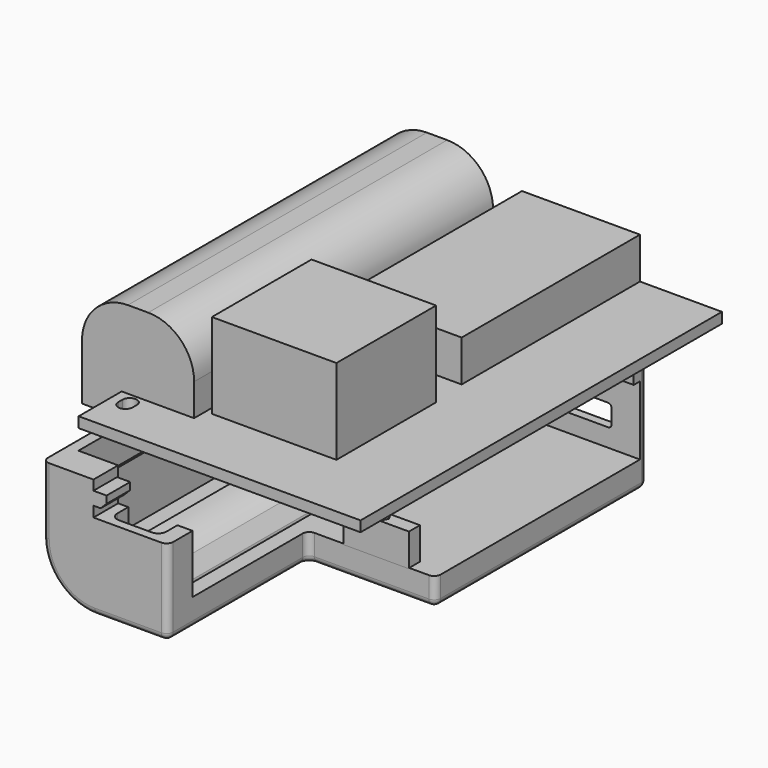
from build123d import *

# Parameters (mm, degrees)
SKETCH004_W          = 43
SKETCH004_H          = 68.9
PAD001_DEPTH         = 1.6
SKETCH005_W          = 18
SKETCH005_H          = 34
PAD002_DEPTH         = 6.3
SKETCH006_W          = 17.1
SKETCH006_H          = 57
PAD003_DEPTH         = 15.5
FILLET_R             = 7
POCKET003_DEPTH      = 3.601
SKETCH010_W          = 19
SKETCH010_H          = 19
PAD004_DEPTH         = 13
PAD_DEPTH            = 18.2
SKETCH003_W          = 19.45
SKETCH003_H          = 39
POCKET_DEPTH         = 14.001
POCKET001_DEPTH      = 5.101
POCKET002_DEPTH      = 57.6
SKETCH011_W          = 5.3
SKETCH011_H          = 2.3
POCKET004_DEPTH      = 5
PAD005_DEPTH         = 2.1
PAD005_DEPTH_BACK    = -10
SKETCH014_W          = 10
SKETCH014_H          = 2.1
PAD006_DEPTH         = 5
CHAMFER001_SIZE      = 0.5
POCKET005_DEPTH      = 5
POCKET006_DEPTH      = 100
POCKET006_DEPTH_BACK = -100
FILLET001_R          = 1
SKETCH017_W          = 4
SKETCH017_H          = 1.2
SKETCH017_W_2        = 3.5
SKETCH017_H_2        = 4.5
SKETCH017_H_3        = 3.3
PAD008_DEPTH         = 2
CHAMFER_SIZE         = 0.9


with BuildPart() as body001:
    # Sketch004 → Pad001 (new body)
    with BuildSketch(Plane.XY):
        with Locations((0, -34.45)):
            Rectangle(SKETCH004_W, SKETCH004_H)
    extrude(amount=-PAD001_DEPTH)

    # Sketch005 → Pad002 (join)
    with BuildSketch(Plane.XY):
        with Locations((0, -17)):
            Rectangle(SKETCH005_W, SKETCH005_H)
    extrude(amount=PAD002_DEPTH)

    # Sketch006 → Pad003 (join)
    with BuildSketch(Plane.XY.offset(-3.6)):
        with Locations((-19, -32.2)):
            Rectangle(SKETCH006_W, SKETCH006_H)
    extrude(amount=PAD003_DEPTH)

    # Fillet
    fillet_edges = [body001.edges().sort_by_distance(p)[0] for p in [
        (-10.45, -32.2, 11.9),
        (-27.55, -32.2, 11.9),
    ]]
    fillet(fillet_edges, radius=FILLET_R)

    # Sketch009 → Pocket003 (cut, through all)
    with BuildSketch(Plane.XY):
        with BuildLine():
            ThreePointArc((-20.1, -63.1), (-19, -64.2), (-17.9, -63.1))
            Line((-17.9, -63.1), (-17.9, -62.3))
            ThreePointArc((-17.9, -62.3), (-19, -61.2), (-20.1, -62.3))
            Line((-20.1, -62.3), (-20.1, -63.1))
        make_face()
        with BuildLine():
            ThreePointArc((-17.9, -1.3), (-19, -0.2), (-20.1, -1.3))
            Line((-20.1, -1.3), (-20.1, -2.1))
            ThreePointArc((-20.1, -2.1), (-19, -3.2), (-17.9, -2.1))
            Line((-17.9, -2.1), (-17.9, -1.3))
        make_face()
    extrude(amount=-POCKET003_DEPTH, mode=Mode.SUBTRACT)

    # Sketch010 → Pad004 (join)
    with BuildSketch(Plane.XY):
        with Locations((0, -49)):
            Rectangle(SKETCH010_W, SKETCH010_H)
    extrude(amount=PAD004_DEPTH)


with BuildPart() as body:
    # Sketch002 → Pad (new body)
    with BuildSketch(Plane.XY.offset(13.1)):
        Polygon((9, 0), (9, 1.3), (-23.5, 1.3), (-23.5, -1.7), (-29.55, -1.7), (-29.55, -65.7), (-10.45, -65.7), (-10.45, -39), (9, -39), align=None)
    extrude(amount=-PAD_DEPTH)

    # Sketch003 → Pocket (cut, through all)
    with BuildSketch(Plane.XY.offset(8.9)):
        with Locations((-0.725, -19.5)):
            Rectangle(SKETCH003_W, SKETCH003_H)
    extrude(amount=-POCKET_DEPTH, mode=Mode.SUBTRACT)

    # Sketch007 → Pocket001 (cut, through all)
    with BuildSketch(Plane.XY):
        Polygon((21.5, 0), (-21.8, 0), (-21.8, -3.4), (-27.85, -3.4), (-27.85, -61), (-21.8, -61), (-21.8, -68.9), (21.5, -68.9), align=None)
    extrude(amount=-POCKET001_DEPTH, mode=Mode.SUBTRACT)

    # Sketch008 → Pocket002 (cut)
    with BuildSketch(Plane.XZ.offset(3.4)):
        with BuildLine():
            ThreePointArc((-12.786305, 8.9), (-14.580794, 10.759754), (-16.9, 11.9))
            Line((-21.1, 11.9), (-16.9, 11.9))
            ThreePointArc((-21.1, 11.9), (-23.419206, 10.759754), (-25.213695, 8.9))
            Line((-25.213695, 8.9), (-27.55, 8.9))
            Line((-27.55, 8.9), (-27.55, -3.6))
            Line((-27.55, -3.6), (-10.45, -3.6))
            Line((-10.45, 8.9), (-10.45, -3.6))
            Line((-12.786305, 8.9), (-10.45, 8.9))
        make_face()
    extrude(amount=POCKET002_DEPTH, mode=Mode.SUBTRACT)

    # Sketch011 → Pocket004 (cut)
    with BuildSketch(Plane.XZ):
        with Locations((0, -3.95)):
            Rectangle(SKETCH011_W, SKETCH011_H)
        with BuildLine():
            Line((-4.65, 3.35), (-4.65, 5.65))
            ThreePointArc((-4.15, 6.15), (-4.503553, 6.003553), (-4.65, 5.65))
            Line((-4.15, 6.15), (4.15, 6.15))
            ThreePointArc((4.65, 5.65), (4.503553, 6.003553), (4.15, 6.15))
            Line((4.65, 5.65), (4.65, 3.35))
            ThreePointArc((4.15, 2.85), (4.503553, 2.996447), (4.65, 3.35))
            Line((4.15, 2.85), (-4.15, 2.85))
            ThreePointArc((-4.65, 3.35), (-4.503553, 2.996447), (-4.15, 2.85))
        make_face()
    extrude(amount=-POCKET004_DEPTH, mode=Mode.SUBTRACT)

    # Sketch012 → Pad005 (join, two sides)
    with BuildSketch(Plane.XY) as pad005_sk:
        Polygon((1.1, -38), (0.55, -37.047372), (-0.55, -37.047372), (-1.1, -38), (-0.55, -38.952628), (0.55, -38.952628), align=None)
    extrude(amount=-PAD005_DEPTH)
    extrude(pad005_sk.sketch, amount=-PAD005_DEPTH_BACK)

    # Sketch014 → Pad006 (join)
    with BuildSketch(Plane.XY.offset(4)):
        with Locations((0, -38)):
            Rectangle(SKETCH014_W, SKETCH014_H)
    extrude(amount=PAD006_DEPTH)

    # Chamfer001
    chamfer001_edges = [body.edges().sort_by_distance(p)[0] for p in [
        (0.825, -37.523686, -2.1),
        (0, -37.047372, -2.1),
        (-0.825, -37.523686, -2.1),
        (-0.825, -38.476314, -2.1),
        (0, -38.952628, -2.1),
        (0.825, -38.476314, -2.1),
    ]]
    chamfer(chamfer001_edges, length=CHAMFER001_SIZE)

    # Sketch013 → Pocket005 (cut)
    with BuildSketch(Plane.XY):
        with BuildLine():
            Line((-20.25, -62.3), (-20.25, -63.1))
            ThreePointArc((-20.25, -63.1), (-19.883883, -63.983883), (-19, -64.35))
            Line((-14, -64.35), (-19, -64.35))
            ThreePointArc((-14, -64.35), (-13.116117, -63.983883), (-12.75, -63.1))
            Line((-12.75, -1.3), (-12.75, -63.1))
            ThreePointArc((-12.75, -1.3), (-13.116117, -0.416117), (-14, -0.05))
            Line((-19, -0.05), (-14, -0.05))
            ThreePointArc((-19, -0.05), (-19.883883, -0.416117), (-20.25, -1.3))
            Line((-20.25, -1.3), (-20.25, -2.1))
            Line((-20.25, -2.1), (-20.25, -62.3))
        make_face()
    extrude(amount=POCKET005_DEPTH, mode=Mode.SUBTRACT)

    # Sketch016 → Pocket006 (cut, two sides)
    with BuildSketch(Plane.XZ) as pocket006_sk:
        with BuildLine():
            ThreePointArc((-21.55, 13.1), (-27.206854, 10.756854), (-29.55, 5.1))
            Line((-29.55, 5.1), (-32.473244, 5.1))
            Line((-32.473244, 5.1), (-32.473244, 16.532589))
            Line((-32.473244, 16.532589), (-21.55, 16.532589))
            Line((-21.55, 16.532589), (-21.55, 13.1))
        make_face()
    extrude(amount=-POCKET006_DEPTH, mode=Mode.SUBTRACT)
    extrude(pocket006_sk.sketch, amount=-POCKET006_DEPTH_BACK, mode=Mode.SUBTRACT)

    # Fillet001
    fillet001_edges = [body.edges().sort_by_distance(p)[0] for p in [
        (9, -19.5, 13.1),
        (-0.725, -39, 13.1),
        (-10.45, -52.35, 13.1),
        (-16, -65.7, 13.1),
        (-21.55, -32.2, 13.1),
        (-6.275, 1.3, 13.1),
        (9, 0.65, 13.1),
        (-22.532436, 1.3, 13.039447),
        (-23.5, 1.3, 3.879352),
        (-23.5, -0.2, 12.858705),
        (-23.5, -1.7, 3.879352),
        (-29.55, -1.7, 0),
        (-27.858724, -1.7, 10.01935),
        (-29.55, -65.7, 0),
        (-27.206854, -65.7, 10.756854),
        (-10.45, -65.7, 6.55),
        (-10.45, -39, 11),
        (9, -39, 11),
        (9, 1.3, 4),
    ]]
    fillet(fillet001_edges, radius=FILLET001_R)

    # Sketch017 → Pad008 (join)
    with BuildSketch(Plane.XY.offset(-1.6)):
        with Locations((7, -0.6)):
            Rectangle(SKETCH017_W, SKETCH017_H)
        with Locations((-21.55, -63.45)):
            Rectangle(SKETCH017_W_2, SKETCH017_H_2)
        with Locations((-21.55, -1.65)):
            Rectangle(SKETCH017_W_2, SKETCH017_H_3)
    extrude(amount=-PAD008_DEPTH)

    # Chamfer
    chamfer_edges = [body.edges().sort_by_distance(p)[0] for p in [
        (-19.8, -1.65, -1.6),
        (-19.8, -63.45, -1.6),
    ]]
    chamfer(chamfer_edges, length=CHAMFER_SIZE)


with BuildPart() as part_mirroring:
    # Part__Mirroring: instance of Body
    add(body.part.mirror(Plane(origin=(0, 0, 0), x_dir=(0, 1, 0), z_dir=(0, 0, 1))))


with BuildPart() as part_mirroring_1:
    # Part__Mirroring placement: moved
    add(part_mirroring.part.moved(Location((0, 0, -15))))


solid = Compound([body001.part, part_mirroring_1.part])
